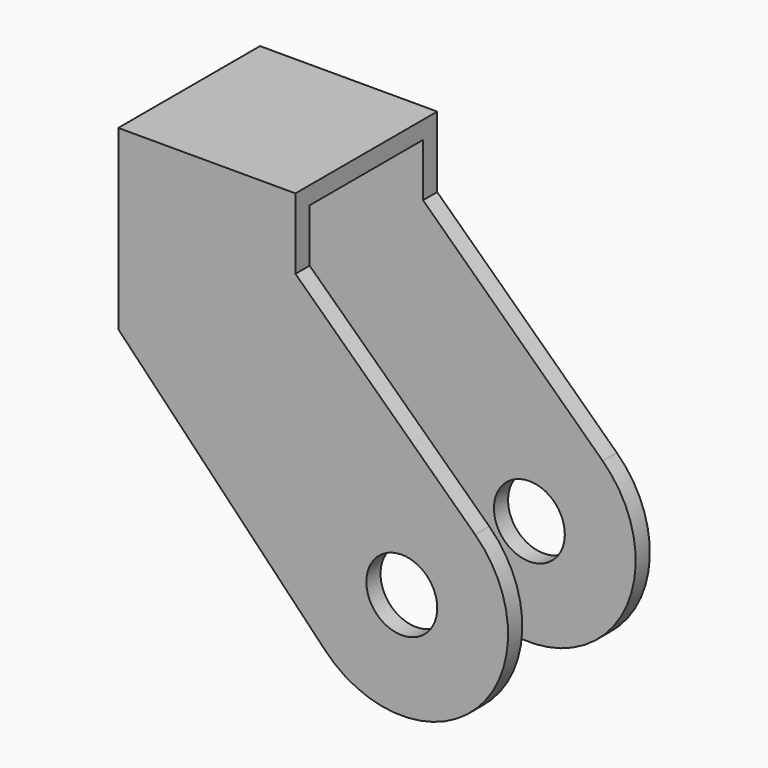
from build123d import *

# Parameters (mm, degrees)
F0_R     = 20
F1_DEPTH = 10
F4_W     = 100
F4_H     = 10
F5_DEPTH = 80


with BuildPart() as f1:
    # F0 (on Front) → F1 (new body)
    with BuildSketch(Plane.XZ):
        with BuildLine():
            Line((100, 0), (0, 0))
            Line((0, 0), (0, -100))
            Line((0, -100), (116.7215506805, -221.5568986391))
            ThreePointArc((116.7215506805, -221.5568986391), (202.5131933075, -222.3394425423), (201.3793103448, -136.5517241379))
            Line((201.3793103448, -136.5517241379), (100, -40))
            Line((100, -40), (100, 0))
        make_face()
        with Locations((160, -180)):
            Circle(F0_R, mode=Mode.SUBTRACT)
    extrude(amount=-F1_DEPTH)


with BuildPart() as f3_1:
    # F3: instance of F1
    add(f1.part.mirror(Plane.XZ.offset(-50)))


with BuildPart() as f1_1:
    add(f1.part)

    add(f3_1.part)  # F5 merges F3_1
    # F4 (on face) → F5 (join, through all)
    with BuildSketch(Plane.XZ.offset(-90)):
        with Locations((50, -5)):
            Rectangle(F4_W, F4_H)
    extrude(amount=F5_DEPTH)


solid = f1_1.part
